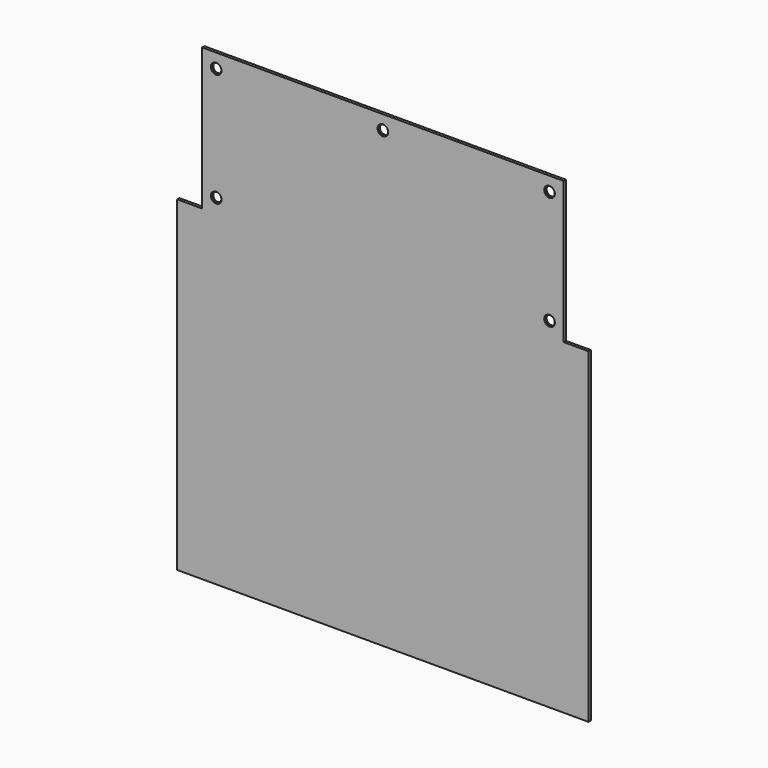
from build123d import *

# Parameters (mm, degrees)
F0_R     = 3.25
F1_DEPTH = 2
F2_SIZE  = 0.5


with BuildPart() as f1:
    # F0 (on Front) → F1 (new body)
    with BuildSketch(Plane.XZ):
        Polygon((145, -115), (145, 115), (127.5, 115), (127.5, 215), (-127.5, 215), (-127.5, 115), (-145, 115), (-145, -115), align=None)
        with Locations((-117.5, 125)):
            Circle(F0_R, mode=Mode.SUBTRACT)
        with Locations((-117.5, 205)):
            Circle(F0_R, mode=Mode.SUBTRACT)
        with Locations((117.5, 125)):
            Circle(F0_R, mode=Mode.SUBTRACT)
        with Locations((0, 205)):
            Circle(F0_R, mode=Mode.SUBTRACT)
        with Locations((117.5, 205)):
            Circle(F0_R, mode=Mode.SUBTRACT)
    extrude(amount=F1_DEPTH)

    # F2
    f2_edges = [f1.edges().sort_by_distance(p)[0] for p in [
        (-114.25, -1, 125),
        (-120.75, 0, 125),
        (-120.75, -2, 125),
        (-114.25, -1, 205),
        (-120.75, 0, 205),
        (-120.75, -2, 205),
        (120.75, -1, 205),
        (114.25, 0, 205),
        (114.25, -2, 205),
        (120.75, -1, 125),
        (114.25, 0, 125),
        (114.25, -2, 125),
        (3.25, -1, 205),
        (-3.25, 0, 205),
        (-3.25, -2, 205),
    ]]
    chamfer(f2_edges, length=F2_SIZE)


solid = f1.part
